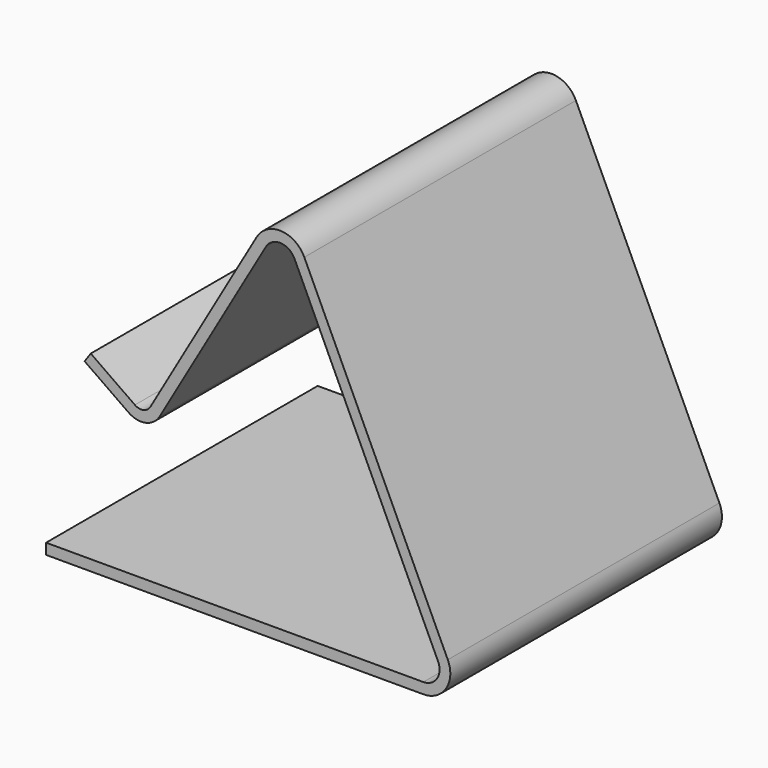
from build123d import *

# Parameters (mm, degrees)
F1_DEPTH = 80


with BuildPart() as f1:
    # F0 (on Front) → F1 (new body)
    with BuildSketch(Plane.XZ):
        with BuildLine():
            Line((88.9, 0), (0, 0))
            Line((0, 0), (0, -2.54))
            Line((0, -2.54), (88.9, -2.54))
            ThreePointArc((88.9, -2.54), (94.255536, 0.398147), (94.655054, 6.493626))
            Line((94.655054, 6.493626), (60.845594, 78.998249))
            ThreePointArc((60.845594, 78.998249), (55.367522, 82.658579), (49.591278, 79.489623))
            Line((49.591278, 79.489623), (24.591278, 36.188353))
            ThreePointArc((24.591278, 36.188353), (22.94133, 34.978561), (20.934689, 35.377707))
            Line((20.934689, 35.377707), (10.531458, 42.662127))
            Line((10.531458, 42.662127), (9.074574, 40.581481))
            Line((9.074574, 40.581481), (19.477805, 33.29706))
            ThreePointArc((19.477805, 33.29706), (23.491086, 32.498769), (26.790982, 34.918353))
            Line((26.790982, 34.918353), (51.790982, 78.219623))
            ThreePointArc((51.790982, 78.219623), (55.256729, 80.120997), (58.543572, 77.924799))
            Line((58.543572, 77.924799), (92.353033, 5.420176))
            ThreePointArc((92.353033, 5.420176), (92.113321, 1.762888), (88.9, 0))
        make_face()
    extrude(amount=F1_DEPTH)


solid = f1.part
